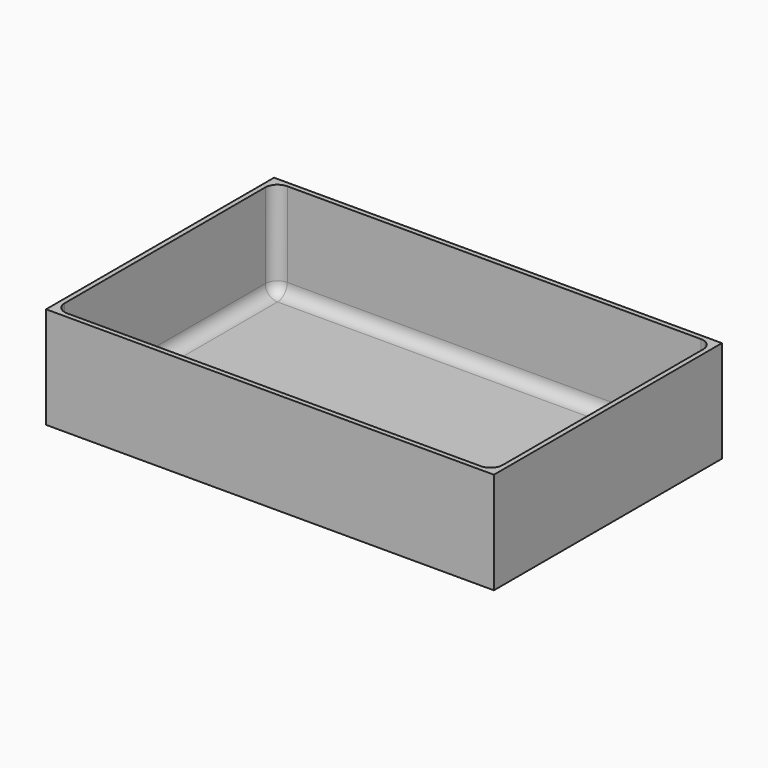
from build123d import *

# Parameters (mm, degrees)
F0_W     = 110
F0_H     = 70
F1_DEPTH = 25
F2_W     = 107.6
F2_H     = 67.6
F3_DEPTH = 23.8
F4_R     = 3


with BuildPart() as f1:
    # F0 (on Top) → F1 (new body)
    with BuildSketch(Plane.XY):
        Rectangle(F0_W, F0_H)
    extrude(amount=F1_DEPTH)

    # F2 (on face) → F3 (cut)
    with BuildSketch(Plane.XY.offset(25)):
        Rectangle(F2_W, F2_H)
    extrude(amount=-F3_DEPTH, mode=Mode.SUBTRACT)

    # F4
    f4_edges = [f1.edges().sort_by_distance(p)[0] for p in [
        (-53.8, 33.8, 13.1),
        (-53.8, 0, 1.2),
        (0, 33.8, 1.2),
        (53.8, 33.8, 13.1),
        (53.8, 0, 1.2),
        (53.8, -33.8, 13.1),
        (0, -33.8, 1.2),
        (-53.8, -33.8, 13.1),
    ]]
    fillet(f4_edges, radius=F4_R)


solid = f1.part
